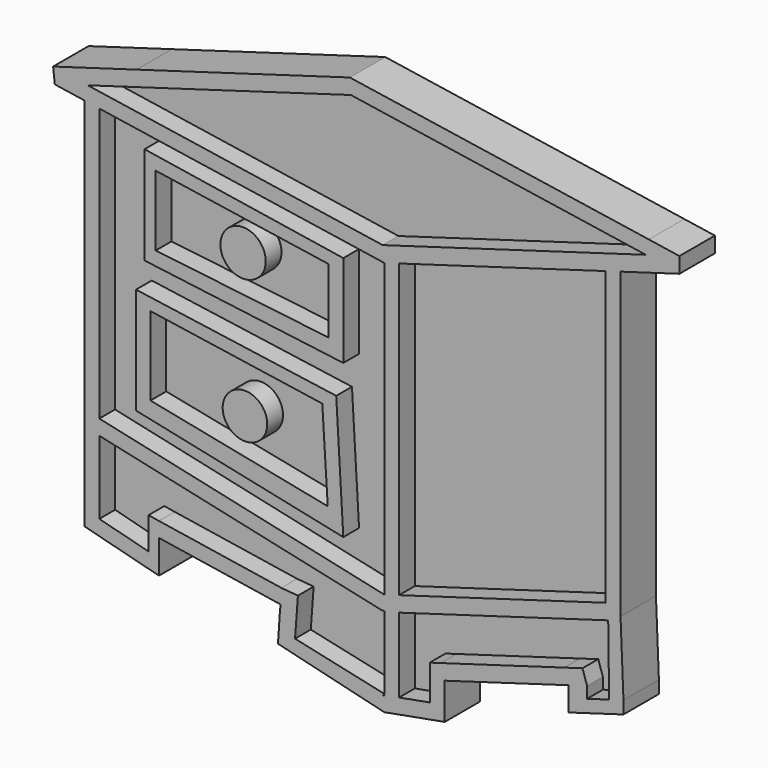
from build123d import *

# Parameters (mm, degrees)
F1_DEPTH = 1.27
F0_R     = 1.1698918357
F0_R_2   = 1.149683984
F2_DEPTH = 2.286


with BuildPart() as f1:
    # F0 (on Front) → F1 (new body)
    with BuildSketch(Plane.XZ):
        Polygon((-15.388094912, 1.7704545665), (-15.388094912, 16.057066756), (-15.388094912, 16.8387157017), (-30.0930766836, 19.0700641461), (-30.0930766836, 18.4871374451), (-30.0930766836, 4.9859051822), align=None)
        Polygon((-28.1987807881, 11.4603284719), (-17.8684613835, 9.9950339617), (-17.5021312367, 3.694271666), (-28.1987807881, 5.9654787155), align=None, mode=Mode.SUBTRACT)
        Polygon((-27.7591816317, 12.9256220507), (-27.7591816317, 17.9808847578), (-17.5021312367, 16.3690615418), (-17.5021312367, 11.6068571778), align=None, mode=Mode.SUBTRACT)
    extrude(amount=F1_DEPTH)



with BuildPart() as f1b:
    # F0 (on Front) → F1, piece 2 (new body)
    with BuildSketch(Plane.XZ):
        Polygon((-18.2767084967, 15.855339353), (-27.1837434899, 17.1943055438), (-27.1837434899, 13.5655133026), (-18.2767084967, 12.5176263945), align=None)
        with Locations((-22.6742944847, 14.9233993115)):
            Circle(F0_R, mode=Mode.SUBTRACT)
    extrude(amount=F1_DEPTH)


with BuildPart() as f1c:
    # F0 (on Front) → F1, piece 3 (new body)
    with BuildSketch(Plane.XZ):
        Polygon((-30.6900013238, 19.9313648045), (-15.4686479767, 17.6216616277), (-1.8903917537, 21.5964431966), (-17.1117451009, 23.9061463734), align=None)
    extrude(amount=F1_DEPTH)


with BuildPart() as f1d:
    # F0 (on Front) → F1, piece 4 (new body)
    with BuildSketch(Plane.XZ):
        Polygon((-14.626094912, 16.057066756), (-14.626094912, 1.9935158717), (-3.9594611633, 5.1159742), (-3.9594611633, 19.5436675764), (-3.9680227461, 20.1817290912), (-14.626094912, 17.0617770069), align=None)
    extrude(amount=F1_DEPTH)


with BuildPart() as f1e:
    # F0 (on Front) → F1, piece 5 (new body)
    with BuildSketch(Plane.XZ):
        Polygon((-3.8323173759, 4.3592156278), (-14.626094912, 1.1995383243), (-14.626094912, -2.6566980141), (-13.0292281976, -2.3633678097), (-13.0292281976, -1.1240722508), (-13.0411074846, -0.5566334484), (-12.4813056802, -0.3927618984), (-6.0969826496, 1.4761297395), (-5.1597074379, 1.7504995978), (-4.9214556754, 1.0262658156), (-4.9214556754, 0.4425999067), (-3.7855914693, 0.7751029937), align=None)
    extrude(amount=F1_DEPTH)


with BuildPart() as f1f:
    # F0 (on Front) → F1, piece 6 (new body)
    with BuildSketch(Plane.XZ):
        Polygon((-15.388094912, -2.7357117464), (-15.388094912, 1.0209244658), (-15.527460836, 1.0209244658), (-30.0231560015, 4.1906116282), (-30.0930766836, 4.2085912157), (-30.0930766836, 0.4284923682), (-27.5556394443, -0.2239908959), (-27.5556394443, 1.4215863233), (-27.0130208861, 1.3366546978), (-20.7008908468, 0.3486688349), (-19.8447576891, 0.273127106), (-19.9932244299, -1.7287355547), align=None)
    extrude(amount=F1_DEPTH)


with BuildPart() as f1g:
    # F0 (on Front) → F1, piece 7 (new body)
    with BuildSketch(Plane.XZ):
        Polygon((-18.5878000389, 9.4085130813), (-27.4529627692, 10.7276812168), (-27.4529627692, 6.66401535), (-18.3046332728, 4.8343520584), align=None)
        with Locations((-22.5763938557, 7.5477305772)):
            Circle(F0_R_2, mode=Mode.SUBTRACT)
    extrude(amount=F1_DEPTH)


with BuildPart() as f1_1:
    add(f1.part)

    add(f1b.part)  # F2 merges F1b

    add(f1c.part)  # F2 merges F1c

    add(f1d.part)  # F2 merges F1d

    add(f1e.part)  # F2 merges F1e

    add(f1f.part)  # F2 merges F1f

    add(f1g.part)  # F2 merges F1g
    # F0 (on Front) → F2 (join)
    with BuildSketch(Plane.XZ):
        Polygon((-17.5021312367, 3.694271666), (-17.8684613835, 9.9950339617), (-28.1987807881, 11.4603284719), (-28.1987807881, 5.9654787155), align=None)
        Polygon((-27.4529627692, 6.66401535), (-27.4529627692, 10.7276812168), (-18.5878000389, 9.4085130813), (-18.3046332728, 4.8343520584), align=None, mode=Mode.SUBTRACT)
        Polygon((-17.5021312367, 16.3690615418), (-27.7591816317, 17.9808847578), (-27.7591816317, 12.9256220507), (-17.5021312367, 11.6068571778), align=None)
        Polygon((-27.1837434899, 13.5655133026), (-27.1837434899, 17.1943055438), (-18.2767084967, 15.855339353), (-18.2767084967, 12.5176263945), align=None, mode=Mode.SUBTRACT)
        Polygon((-32.4763386121, 20.2024253873), (-30.6900013238, 19.9313648045), (-17.1117451009, 23.9061463734), (-1.8903917537, 21.5964431966), (-0.1563745312, 22.1040444366), (-1.7350990934, 22.3436016595), (-17.1640651666, 24.6848081963), (-28.1764094956, 21.4611495356), align=None)
        Polygon((-3.9594611633, 5.1159742), (-14.626094912, 1.9935158717), (-14.626094912, 1.7704545955), (-14.626094912, 1.1995383243), (-3.8323173759, 4.3592156278), (-3.7855914693, 0.7751029937), (-3.0450882633, 0.9918715129), (-3.1974611633, 4.7442035481), (-3.1974611633, 19.5436675764), (-3.1974611633, 20.4072966403), (-3.9680227461, 20.1817290912), (-3.9594611633, 19.5436675764), align=None)
        Polygon((-30.0930766836, 4.2085912157), (-30.0930766836, 4.9859051822), (-30.0930766836, 18.4871374451), (-30.0930766836, 19.0700641461), (-30.8550766836, 19.185690778), (-30.8550766836, 18.4871374451), (-30.8550766836, 4.9331725397), (-30.8550766836, 0.6244350459), (-30.8505439091, 0.6232694764), (-30.8485884176, 0.6227666362), (-30.0930766836, 0.4284923682), align=None)
        Polygon((-30.0930766836, 19.0700641461), (-15.388094912, 16.8387157017), (-15.4686479767, 17.6216616277), (-30.6900013238, 19.9313648045), (-32.4763386121, 20.2024253873), (-32.3898017041, 19.4185714671), (-30.8550766836, 19.185690778), align=None)
        Polygon((-15.4686479767, 17.6216616277), (-15.388094912, 16.8387157017), (-14.626094912, 17.0617770069), (-3.9680227461, 20.1817290912), (-3.1974611633, 20.4072966403), (-0.1563745312, 21.2975181015), (-0.1563745312, 22.1040444366), (-1.8903917537, 21.5964431966), align=None)
        Polygon((-15.388094912, 16.8387157017), (-15.388094912, 16.057066756), (-15.388094912, 1.7704545665), (-14.626094912, 1.9935158717), (-14.626094912, 16.057066756), (-14.626094912, 17.0617770069), align=None)
        Polygon((-15.388094912, 1.0209244658), (-15.388094912, 1.7704545665), (-30.0930766836, 4.9859051822), (-30.0930766836, 4.2085912157), (-30.0231560015, 4.1906116282), (-15.527460836, 1.0209244658), align=None)
        Polygon((-13.0292281976, -1.1240722508), (-13.0292281976, -2.3633678097), (-12.4034496222, -2.2484178544), (-12.2672281976, -2.223395191), (-12.2672281976, -1.1240722507), (-5.880947848, 0.7453923558), (-4.9214556754, 1.0262658156), (-5.1597074379, 1.7504995978), (-6.0969826496, 1.4761297395), (-12.4813056802, -0.3927618984), (-13.0411074846, -0.5566334484), align=None)
        Polygon((-20.7515549942, -0.414678788), (-20.7008908468, 0.3486688349), (-27.0130208861, 1.3366546978), (-27.0130208861, 0.5653770321), align=None)
        with Locations((-22.6742944847, 14.9233993115)):
            Circle(F0_R)
        with Locations((-22.5763938557, 7.5477305772)):
            Circle(F0_R_2)
        Polygon((-15.388094912, -2.7966706329), (-15.388094912, -2.7357117464), (-19.9932244299, -1.7287355547), (-20.0464328287, -2.4461750717), (-15.388094912, -3.57141984), (-15.388094912, -2.8208797925), (-15.5198876856, -2.8208797925), align=None)
        Polygon((-15.1740174294, 1.0391442142), (-15.388094912, 1.0209244658), (-15.388094912, -2.7357117464), (-15.388094912, -2.7966706329), (-14.626094912, -2.6566980141), (-14.626094912, 1.1995383243), align=None)
        Polygon((-27.5556394443, -0.2239908959), (-30.0930766836, 0.4284923682), (-30.0930766836, -0.1490246532), (-30.0930766836, -0.3582970146), (-27.5556394443, -1.0107802787), align=None)
        Polygon((-20.8266744405, -1.5464900143), (-19.9932244299, -1.7287355547), (-19.8447576891, 0.273127106), (-20.7008908468, 0.3486688349), (-20.7515549942, -0.414678788), (-20.7364695061, -0.4170399955), (-20.7708697434, -0.7056906514), align=None)
        Polygon((-13.0292281976, -2.3633678097), (-14.626094912, -2.6566980141), (-14.626094912, -3.4314472213), (-13.0292281976, -3.1381170169), (-13.0292281976, -2.9902135849), align=None)
        Polygon((-3.0450882633, 0.9918715129), (-3.7855914693, 0.7751029937), (-4.9214556754, 0.4425999067), (-4.9214556754, -0.2108097675), (-3.0450882633, 0.3384618388), align=None)
        Polygon((-4.9214556754, -0.2108097675), (-4.9214556754, 0.4425999067), (-4.9214556754, 1.0262658156), (-5.880947848, 0.7453923558), (-5.8803612014, -0.4915114974), align=None)
        Polygon((-27.5556394443, 1.4215863233), (-27.5556394443, -0.2239908959), (-27.0130208861, -0.3635212545), (-27.0130208861, 0.5396492752), (-27.0484225739, 0.5709181675), (-27.0130208861, 0.5653770321), (-27.0130208861, 1.3366546978), align=None)
        Polygon((-14.626094912, 1.9935158717), (-15.388094912, 1.7704545665), (-15.388094912, 1.0209244658), (-15.1740174294, 1.0391442142), (-14.626094912, 1.1995383243), (-14.626094912, 1.7704545955), align=None)
        Polygon((-30.0930766836, -0.1490246532), (-30.0930766836, 0.4284923682), (-30.8485884176, 0.6227666362), (-30.8505439091, 0.6232694764), (-30.8550766836, 0.6244350459), (-30.8550766836, -0.1623543369), (-30.0930766836, -0.3582970146), align=None)
        Polygon((-20.0464328287, -2.4461750717), (-19.9932244299, -1.7287355547), (-20.8266744405, -1.5464900143), (-20.8731335697, -2.2464813826), align=None)
        Polygon((-14.626094912, -2.6566980141), (-15.388094912, -2.7966706329), (-15.388094912, -2.8208797925), (-15.388094912, -3.57141984), (-14.6509673791, -3.4360160722), (-14.626094912, -3.4314472213), align=None)
        Polygon((-12.4034496222, -2.2484178544), (-13.0292281976, -2.3633678097), (-13.0292281976, -2.9902135849), (-13.0292281976, -3.1381170169), (-12.2672281976, -2.9981443981), (-12.2672281976, -2.223395191), align=None)
        Polygon((-27.0130208861, -0.3635212545), (-27.5556394443, -0.2239908959), (-27.5556394443, -1.0107802787), (-27.0130208861, -1.1503106373), (-27.0130208861, -0.3672745107), align=None)
    extrude(amount=F2_DEPTH)


solid = f1_1.part
